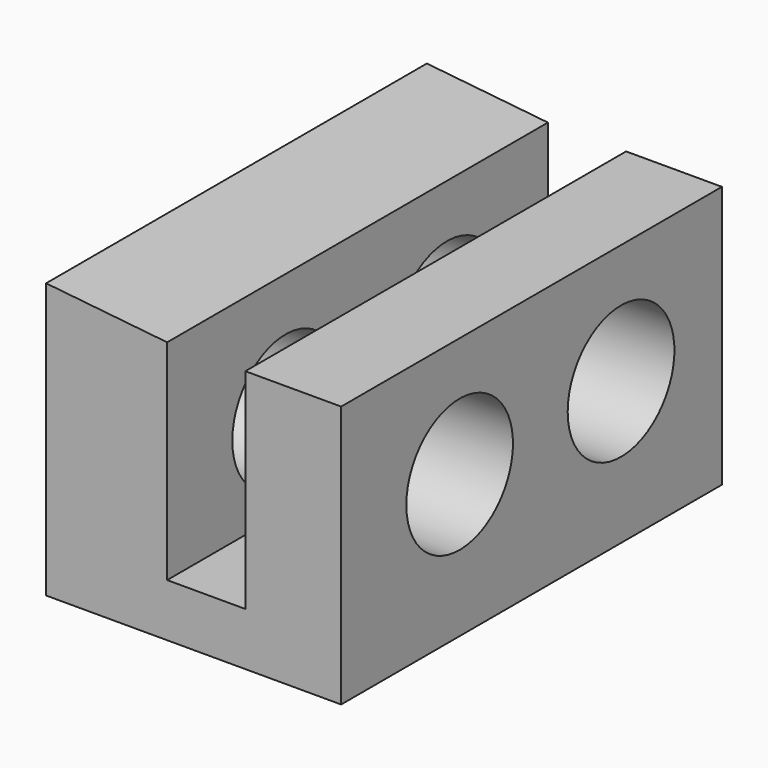
from build123d import *

# Parameters (mm, degrees)
F1_DEPTH = 25.4
F2_R     = 3.558841
F2_R_2   = 3.556
F3_DEPTH = 25.4


with BuildPart() as f1:
    # F0 (on Front) → F1 (new body)
    with BuildSketch(Plane.XZ):
        Polygon((13.592953, 6.392725), (7.132936, 7.065644), (7.132936, -7.603978), (22.879226, -7.603978), (22.879226, 6.392725), (17.765047, 6.392725), (17.765047, -4.777721), (13.592953, -4.777721), align=None)
    extrude(amount=F1_DEPTH)

    # F2 (on face) → F3 (cut)
    with BuildSketch(Plane(origin=(7.132936, 0, 0), x_dir=(0, -1, 0), z_dir=(-1, 0, 0))):
        with Locations((6.729184, 0)):
            Circle(F2_R)
        with Locations((17.49588, 0)):
            Circle(F2_R_2)
    extrude(amount=-F3_DEPTH, mode=Mode.SUBTRACT)


solid = f1.part
